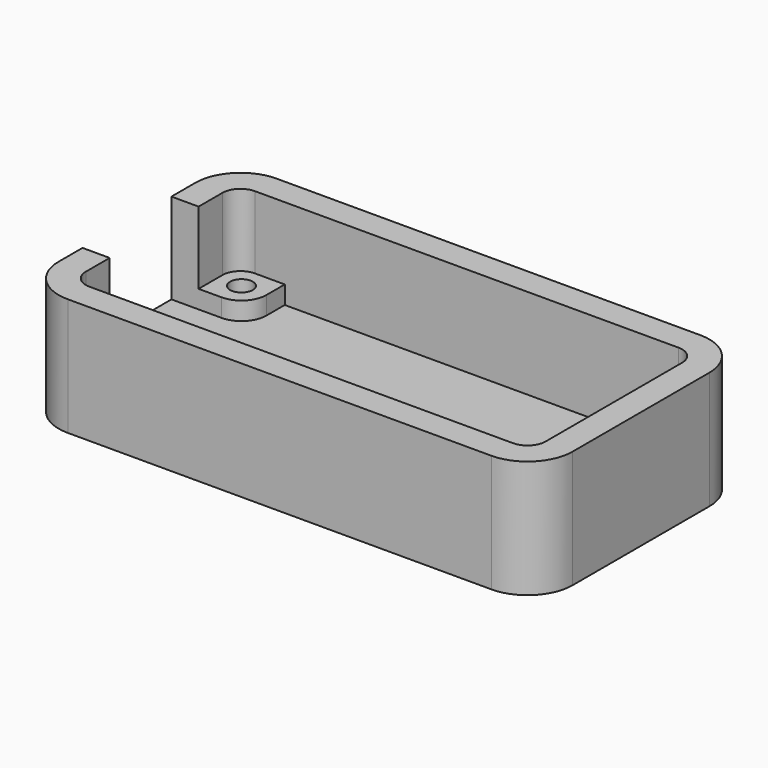
from build123d import *

# Parameters (mm, degrees)
F0_W      = 56.8
F0_H      = 28.86
F1_DEPTH  = 3
F2_W      = 56.8
F2_H      = 28.86
F2_W_2    = 50.8
F2_H_2    = 22.86
F3_DEPTH  = 10
F4_W      = 5.29
F4_H      = 5.29
F4_R      = 1.25
F5_DEPTH  = 2
F6_R      = 2.75
F7_R      = 2
F8_R      = 5
F9_W      = 12.28
F9_H      = 10
F10_DEPTH = 3
F11_DEPTH = 3


with BuildPart() as f1:
    # F0 (on Top) → F1 (new body)
    with BuildSketch(Plane.XY):
        Rectangle(F0_W, F0_H)
    extrude(amount=F1_DEPTH)

    # F2 (on face) → F3 (join)
    with BuildSketch(Plane.XY.offset(3)):
        Rectangle(F2_W, F2_H)
        Rectangle(F2_W_2, F2_H_2, mode=Mode.SUBTRACT)
    extrude(amount=F3_DEPTH)

    # F4 (on face) → F5 (join)
    with BuildSketch(Plane.XY.offset(3)):
        with Locations((-22.755, 8.785)):
            Rectangle(F4_W, F4_H)
        with Locations((-22.86, 8.89)):
            Circle(F4_R, mode=Mode.SUBTRACT)
        with Locations((22.755, -8.785)):
            Rectangle(F4_W, F4_H)
        with Locations((22.86, -8.89)):
            Circle(F4_R, mode=Mode.SUBTRACT)
        with Locations((22.755, 8.785)):
            Rectangle(F4_W, F4_H)
        with Locations((22.86, 8.89)):
            Circle(F4_R, mode=Mode.SUBTRACT)
        with Locations((-22.755, -8.785)):
            Rectangle(F4_W, F4_H)
        with Locations((-22.86, -8.89)):
            Circle(F4_R, mode=Mode.SUBTRACT)
    extrude(amount=F5_DEPTH)

    # F6
    f6_edges = [f1.edges().sort_by_distance(p)[0] for p in [
        (-20.11, 6.14, 4),
        (20.11, 6.14, 4),
        (20.11, -6.14, 4),
        (-20.11, -6.14, 4),
    ]]
    fillet(f6_edges, radius=F6_R)

    # F7
    f7_edges = [f1.edges().sort_by_distance(p)[0] for p in [
        (-25.4, 11.43, 9),
        (25.4, 11.43, 9),
        (25.4, -11.43, 9),
        (-25.4, -11.43, 9),
    ]]
    fillet(f7_edges, radius=F7_R)

    # F8
    f8_edges = [f1.edges().sort_by_distance(p)[0] for p in [
        (28.4, 14.43, 6.5),
        (28.4, -14.43, 6.5),
        (-28.4, -14.43, 6.5),
        (-28.4, 14.43, 6.5),
    ]]
    fillet(f8_edges, radius=F8_R)

    # F9 (on face) → F10 (cut, through all)
    with BuildSketch(Plane.YZ.offset(-25.4)):
        with Locations((0, 8)):
            Rectangle(F9_W, F9_H)
    extrude(amount=-F10_DEPTH, mode=Mode.SUBTRACT)

    # F11 (cut, through all): faces of the model
    f11_faces = [f1.faces().sort_by_distance(p)[0] for p in [
        (22.86, 8.89, 3),
        (22.86, -8.89, 3),
        (-22.86, -8.89, 3),
        (-22.86, 8.89, 3),
    ]]
    extrude(f11_faces, amount=-F11_DEPTH, mode=Mode.SUBTRACT)


solid = f1.part
